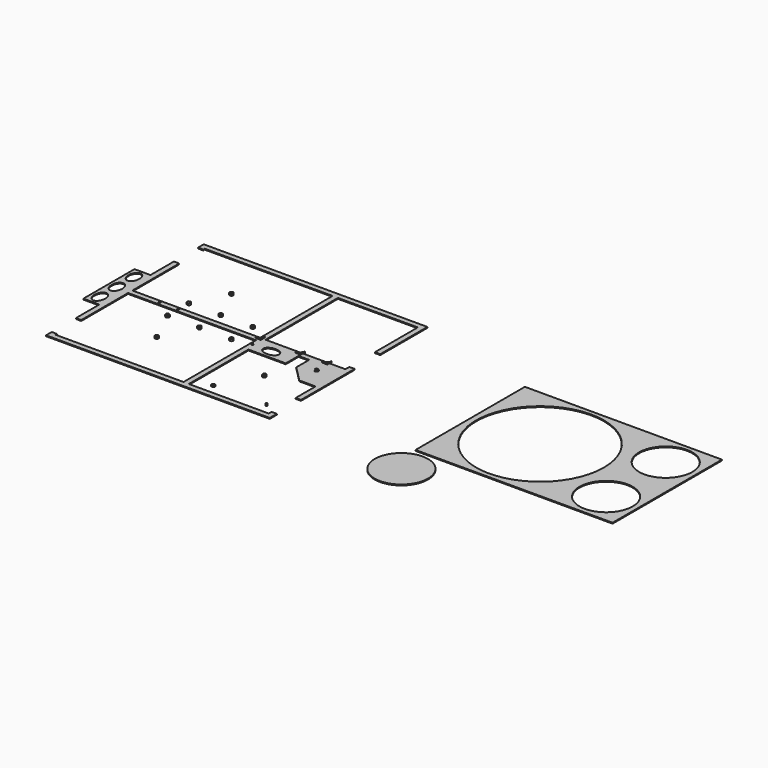
from build123d import *

# Parameters (mm, degrees)
F1_W     = 457.2
F1_H     = 1828.8
F1_W_2   = 1066.8
F1_H_2   = 457.2
F3_DEPTH = 25.4
F1_W_3   = 5638.8
F1_H_3   = 3911.6
F1_R     = 1828.8
F1_R_2   = 762
F1_R_3   = 50.8
F4_DEPTH = 50.8
F2_R     = 50.8


with BuildPart() as f3:
    # F1 (on Top) → F3 (new body)
    with BuildSketch(Plane.XY):
        Polygon((1066.8, -2743.2001441956), (152.4, -2743.2001441956), (152.4, -1066.8001441956), (0, -1066.8001441956), (0, -1905.0001441956), (0, -3733.8001441956), (0, -4572.0001441956), (152.4, -4572.0001441956), (152.4, -2895.6001441956), (1066.8, -2895.6001441956), (1981.2, -2895.6001441956), (2895.6, -2895.6001441956), (3810, -2895.6001441956), (3810, -4419.6001441956), (3810, -5486.4001441956), (152.4, -5486.4001441956), (152.4, -5435.6001441956), (76.2, -5435.6001441956), (0, -5435.6001441956), (0, -5638.8001441956), (6400.8, -5638.8001441956), (6400.8, -5384.8001441956), (6324.6, -5384.8001441956), (6248.4, -5384.8001441956), (6248.4, -5486.4001441956), (3962.4, -5486.4001441956), (3962.4, -3352.8001441956), (3962.4, -2895.6001441956), (5029.2, -2895.6001441956), (5334, -2895.6001441956), (6248.4, -2895.6001441956), (6248.4, -3810.0001441956), (6248.4, -4521.2001441956), (6400.8, -4521.2001441956), (6400.8, -2601.5044700622), (6324.6, -2601.5044700622), (6248.4, -2601.5044700622), (6248.4, -2743.2001441956), (3962.4, -2743.2001441956), (3962.4, -152.4001441955), (6248.4, -152.4001441955), (6248.4, -1687.1044700622), (6400.8, -1687.1044700622), (6400.8, -0.0001441956), (3962.4, -0.0001441956), (0, -0.0001441956), (0, -203.2001441956), (76.2, -203.2001441956), (152.4, -203.2001441956), (152.4, -152.4001441956), (3810, -152.4001441955), (3810, -1219.2001441956), (3810, -2743.2001441956), (2895.6, -2743.2001441956), (1981.2, -2743.2001441956), align=None)
        with Locations((-228.6, -2819.4001441956)):
            Rectangle(F1_W, F1_H)
        with BuildLine():
            add(Edge.make_bspline(
                [(-228.6, -3200.4001441956), (-492.5645430735, -3200.4001441956), (-360.5822715367, -3543.3001441956), (-228.6, -3886.2001441956), (-96.6177284633, -3543.3001441956), (35.3645430735, -3200.4001441956), (-228.6, -3200.4001441956)],
                knots=[0, 0, 0, 2.0943951024, 2.0943951024, 4.1887902048, 4.1887902048, 6.2831853072, 6.2831853072, 6.2831853072], degree=2, weights=[1, 0.5, 1, 0.5, 1, 0.5, 1]))
        make_face(mode=Mode.SUBTRACT)
        with BuildLine():
            add(Edge.make_bspline(
                [(-228.6, -2590.8001441956), (-492.5645430735, -2590.8001441956), (-360.5822715367, -2933.7001441956), (-228.6, -3276.6001441956), (-96.6177284633, -2933.7001441956), (35.3645430735, -2590.8001441956), (-228.6, -2590.8001441956)],
                knots=[0, 0, 0, 2.0943951024, 2.0943951024, 4.1887902048, 4.1887902048, 6.2831853072, 6.2831853072, 6.2831853072], degree=2, weights=[1, 0.5, 1, 0.5, 1, 0.5, 1]))
        make_face(mode=Mode.SUBTRACT)
        with BuildLine():
            add(Edge.make_bspline(
                [(-228.6, -1981.2001441956), (-492.5645430735, -1981.2001441956), (-360.5822715367, -2324.1001441956), (-228.6, -2667.0001441956), (-96.6177284633, -2324.1001441956), (35.3645430735, -1981.2001441956), (-228.6, -1981.2001441956)],
                knots=[0, 0, 0, 2.0943951024, 2.0943951024, 4.1887902048, 4.1887902048, 6.2831853072, 6.2831853072, 6.2831853072], degree=2, weights=[1, 0.5, 1, 0.5, 1, 0.5, 1]))
        make_face(mode=Mode.SUBTRACT)
        Polygon((5784.85, -3810.0001441956), (6248.4, -3810.0001441956), (6248.4, -2895.6001441956), (5334, -2895.6001441956), (5334, -3359.1501441956), align=None)
        with Locations((4495.8, -3124.2001441956)):
            Rectangle(F1_W_2, F1_H_2)
        with BuildLine():
            add(Edge.make_bspline(
                [(4191, -3109.5941986084), (4191, -3373.5587416819), (4533.9, -3241.5764701451), (4876.8, -3109.5941986084), (4533.9, -2977.6119270716), (4191, -2845.6296555349), (4191, -3109.5941986084)],
                knots=[0, 0, 0, 2.0943951024, 2.0943951024, 4.1887902048, 4.1887902048, 6.2831853072, 6.2831853072, 6.2831853072], degree=2, weights=[1, 0.5, 1, 0.5, 1, 0.5, 1]))
        make_face(mode=Mode.SUBTRACT)
    extrude(amount=F3_DEPTH)

    # F2 (on Top) → F4, piece 8 (join)
    with BuildSketch(Plane.XY):
        with BuildLine():
            ThreePointArc((5842, -3200.4001441956), (5827.1210244843, -3164.4791197113), (5791.2, -3149.6001441956))
            Line((5791.2, -3149.6001441956), (5791.2, -3251.2001441956))
            ThreePointArc((5791.2, -3251.2001441956), (5827.1210244843, -3236.3211686798), (5842, -3200.4001441956))
        make_face()
        with BuildLine():
            Line((5791.2, -3251.2001441956), (5791.2, -3149.6001441956))
            ThreePointArc((5791.2, -3149.6001441956), (5740.4, -3200.4001441956), (5791.2, -3251.2001441956))
        make_face()
        with BuildLine():
            ThreePointArc((3911.6, -3109.5941986084), (3904.1605122421, -3091.6336863662), (3886.2, -3084.1941986084))
            Line((3886.2, -3084.1941986084), (3886.2, -3109.5941986084))
            Line((3886.2, -3109.5941986084), (3911.6, -3109.5941986084))
        make_face()
        with BuildLine():
            Line((3886.2, -3109.5941986084), (3886.2, -3084.1941986084))
            ThreePointArc((3886.2, -3084.1941986084), (3860.8, -3109.5941986084), (3886.2, -3134.9941986084))
            Line((3886.2, -3134.9941986084), (3886.2, -3109.5941986084))
        make_face()
        with BuildLine():
            Line((3733.8, -2819.4), (3886.2, -2819.4))
            Line((3886.2, -2819.4), (3886.2, -2667))
            ThreePointArc((3886.2, -2667), (3841.5630734528, -2774.7630734528), (3733.8, -2819.4))
        make_face()
        with BuildLine():
            Line((4876.8, -2819.4), (5029.2, -2819.4))
            Line((5029.2, -2819.4), (5029.2, -2667))
            ThreePointArc((5029.2, -2667), (4984.5630734528, -2774.7630734528), (4876.8, -2819.4))
        make_face()
        with BuildLine():
            Line((5791.2, -2819.4), (5791.2, -2667))
            ThreePointArc((5791.2, -2667), (5746.5630734528, -2774.7630734528), (5638.8, -2819.4))
            Line((5638.8, -2819.4), (5791.2, -2819.4))
        make_face()
        with BuildLine():
            ThreePointArc((3886.2, -3134.9941986084), (3904.1605122421, -3127.5547108505), (3911.6, -3109.5941986084))
            Line((3911.6, -3109.5941986084), (3886.2, -3109.5941986084))
            Line((3886.2, -3109.5941986084), (3886.2, -3134.9941986084))
        make_face()
        with BuildLine():
            ThreePointArc((963.5691699066, -2819.4001441956), (988.9691699066, -2844.8001441956), (1014.3691699066, -2819.4001441956))
            Line((1014.3691699066, -2819.4001441956), (963.5691699066, -2819.4001441956))
        make_face()
        with BuildLine():
            Line((963.5691699066, -2819.4001441956), (1014.3691699066, -2819.4001441956))
            ThreePointArc((1014.3691699066, -2819.4001441956), (988.9691699066, -2794.0001441956), (963.5691699066, -2819.4001441956))
        make_face()
        with BuildLine():
            ThreePointArc((1549.4, -2819.4), (1541.9605122421, -2801.4394877579), (1524, -2794))
            ThreePointArc((1524, -2794), (1506.0394367771, -2801.4395387388), (1498.6000000004, -2819.4001441956))
            Line((1498.6000000004, -2819.4001441956), (1549.3999999996, -2819.4001441956))
            ThreePointArc((1549.3999999996, -2819.4001441956), (1549.3999999999, -2819.4000720978), (1549.4, -2819.4))
        make_face()
        with BuildLine():
            Line((1549.3999999996, -2819.4001441956), (1498.6000000004, -2819.4001441956))
            ThreePointArc((1498.6000000004, -2819.4001441956), (1524, -2844.8), (1549.3999999996, -2819.4001441956))
        make_face()
    extrude(amount=F4_DEPTH)


with BuildPart() as f3b:
    # F1 (on Top) → F3, piece 2 (new body)
    with BuildSketch(Plane.XY):
        with Locations((12731.6400283813, -2858.5653869629)):
            Rectangle(F1_W_3, F1_H_3)
        with BuildLine():
            ThreePointArc((15409.3929244995, -3916.2555950165), (14108.5775572354, -4455.0709622806), (14647.3929244995, -3154.2555950165))
            ThreePointArc((14647.3929244995, -3154.2555950165), (15186.2082917637, -3377.4402277523), (15409.3929244995, -3916.2555950165))
        make_face(mode=Mode.SUBTRACT)
        with Locations((11904.1929244995, -2849.4555950165)):
            Circle(F1_R, mode=Mode.SUBTRACT)
        with BuildLine():
            ThreePointArc((15409.3929244995, -1782.6555950165), (15186.2082917637, -2321.4709622806), (14647.3929244995, -2544.6555950165))
            ThreePointArc((14647.3929244995, -2544.6555950165), (14108.5775572354, -1243.8402277523), (15409.3929244995, -1782.6555950165))
        make_face(mode=Mode.SUBTRACT)
    extrude(amount=F3_DEPTH)


with BuildPart() as f3c:
    # F1 (on Top) → F3, piece 3 (new body)
    with BuildSketch(Plane.XY):
        with Locations((10234.5358913588, -5723.3744606053)):
            Circle(F1_R_2)
    extrude(amount=F3_DEPTH)


with BuildPart() as f3d:
    # F1 (on Top) → F3, piece 4 (new body)
    with BuildSketch(Plane.XY):
        with Locations((4419.6, -5181.6001441956)):
            Circle(F1_R_3)
    extrude(amount=F3_DEPTH)


with BuildPart() as f4:
    # F2 (on Top) → F4 (new body)
    with BuildSketch(Plane.XY):
        with BuildLine():
            ThreePointArc((5969, -5181.6001441956), (5961.5605122421, -5163.6396319534), (5943.6, -5156.2001441956))
            ThreePointArc((5943.6, -5156.2001441956), (5925.6394877579, -5199.5606564377), (5969, -5181.6001441956))
        make_face()
    extrude(amount=F4_DEPTH)


with BuildPart() as f4b:
    # F2 (on Top) → F4, piece 2 (new body)
    with BuildSketch(Plane.XY):
        with BuildLine():
            ThreePointArc((5080, -4114.8001441956), (5065.1210244843, -4078.8791197113), (5029.2, -4064.0001441956))
            Line((5029.2, -4064.0001441956), (5029.2, -4165.6001441956))
            ThreePointArc((5029.2, -4165.6001441956), (5065.1210244843, -4150.7211686798), (5080, -4114.8001441956))
        make_face()
        with BuildLine():
            Line((5029.2, -4165.6001441956), (5029.2, -4064.0001441956))
            ThreePointArc((5029.2, -4064.0001441956), (4978.4, -4114.8001441956), (5029.2, -4165.6001441956))
        make_face()
    extrude(amount=F4_DEPTH)


with BuildPart() as f4c:
    # F2 (on Top) → F4, piece 3 (new body)
    with BuildSketch(Plane.XY):
        with BuildLine():
            ThreePointArc((3403.6, -3200.4), (3388.7210244843, -3164.4789755157), (3352.8, -3149.6))
            ThreePointArc((3352.8, -3149.6), (3316.8789755157, -3236.3210244843), (3403.6, -3200.4))
        make_face()
    extrude(amount=F4_DEPTH)


with BuildPart() as f4d:
    # F2 (on Top) → F4, piece 4 (new body)
    with BuildSketch(Plane.XY):
        with BuildLine():
            ThreePointArc((2489.2, -3200.4), (2474.3210301105, -3164.478981142), (2438.4000159135, -3149.6))
            ThreePointArc((2438.4000159135, -3149.6), (2402.4789698895, -3236.321018858), (2489.2, -3200.4))
        make_face()
    extrude(amount=F4_DEPTH)


with BuildPart() as f4e:
    # F2 (on Top) → F4, piece 5 (new body)
    with BuildSketch(Plane.XY):
        with BuildLine():
            ThreePointArc((2489.2, -2438.3999951099), (2402.4789755157, -2402.4789706256), (2438.4, -2489.1999951099))
            ThreePointArc((2438.4, -2489.1999951099), (2474.3210244843, -2474.3210195942), (2489.2, -2438.3999951099))
        make_face()
    extrude(amount=F4_DEPTH)


with BuildPart() as f4f:
    # F2 (on Top) → F4, piece 6 (new body)
    with BuildSketch(Plane.XY):
        with BuildLine():
            ThreePointArc((3403.6, -2438.4), (3316.8789755157, -2402.4789755157), (3352.8, -2489.2))
            ThreePointArc((3352.8, -2489.2), (3388.7210244843, -2474.3210244843), (3403.6, -2438.4))
        make_face()
    extrude(amount=F4_DEPTH)


with BuildPart() as f4g:
    # F2 (on Top) → F4, piece 7 (new body)
    with BuildSketch(Plane.XY):
        with BuildLine():
            ThreePointArc((1524, -2489.2), (1559.9210244843, -2474.3210244843), (1574.8, -2438.4))
            ThreePointArc((1574.8, -2438.4), (1488.0789755157, -2402.4789755157), (1524, -2489.2))
        make_face()
    extrude(amount=F4_DEPTH)


with BuildPart() as f4h:
    # F2 (on Top) → F4, piece 9 (new body)
    with BuildSketch(Plane.XY):
        with Locations((1524, -3200.4)):
            Circle(F2_R)
    extrude(amount=F4_DEPTH)


with BuildPart() as f4i:
    # F2 (on Top) → F4, piece 10 (new body)
    with BuildSketch(Plane.XY):
        with BuildLine():
            ThreePointArc((1981.2, -4102.1001441956), (1945.2789755157, -4188.8211686798), (2032, -4152.9001441956))
            ThreePointArc((2032, -4152.9001441956), (2017.1210244843, -4116.9791197113), (1981.2, -4102.1001441956))
        make_face()
    extrude(amount=F4_DEPTH)


with BuildPart() as f4j:
    # F2 (on Top) → F4, piece 11 (new body)
    with BuildSketch(Plane.XY):
        with BuildLine():
            ThreePointArc((1981.2, -1536.7001441956), (2017.1210244843, -1521.8211686798), (2032, -1485.9001441956))
            ThreePointArc((2032, -1485.9001441956), (1945.2789755157, -1449.9791197113), (1981.2, -1536.7001441956))
        make_face()
    extrude(amount=F4_DEPTH)


solid = Compound([f3.part, f3b.part, f3c.part, f3d.part, f4.part, f4b.part, f4c.part, f4d.part, f4e.part, f4f.part, f4g.part, f4h.part, f4i.part, f4j.part])
